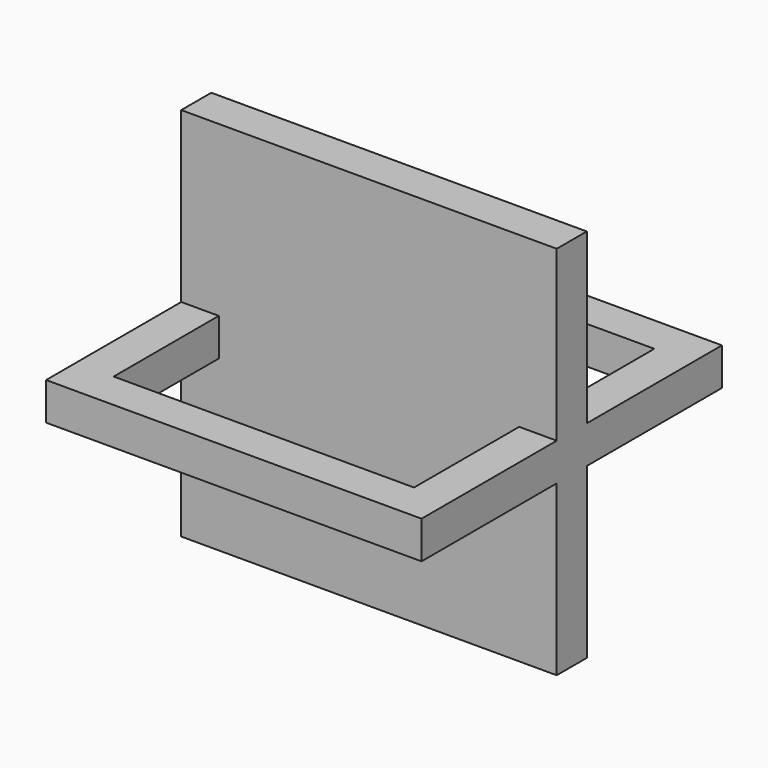
from build123d import *

# Parameters (mm, degrees)
F0_W          = 50.8
F0_H          = 50.8
F1_DEPTH      = 2.54
F1_DEPTH_BACK = 2.54
F2_W          = 40.64
F2_H          = 40.64
F3_DEPTH      = 5.081
F4_W          = 50.8
F4_H          = 50.8
F5_DEPTH      = 2.54
F5_DEPTH_BACK = 2.54


with BuildPart() as f1:
    # F0 (on Top) → F1 (new body, two sides)
    with BuildSketch(Plane.XY) as f1_sk:
        Rectangle(F0_W, F0_H)
    extrude(amount=F1_DEPTH)
    extrude(f1_sk.sketch, amount=-F1_DEPTH_BACK)

    # F2 (on face) → F3 (cut, through all)
    with BuildSketch(Plane.XY.offset(2.54)):
        Rectangle(F2_W, F2_H)
    extrude(amount=-F3_DEPTH, mode=Mode.SUBTRACT)

    # F4 (on Front) → F5 (join, two sides)
    with BuildSketch(Plane.XZ) as f5_sk:
        Rectangle(F4_W, F4_H)
    extrude(amount=F5_DEPTH)
    extrude(f5_sk.sketch, amount=-F5_DEPTH_BACK)


solid = f1.part
